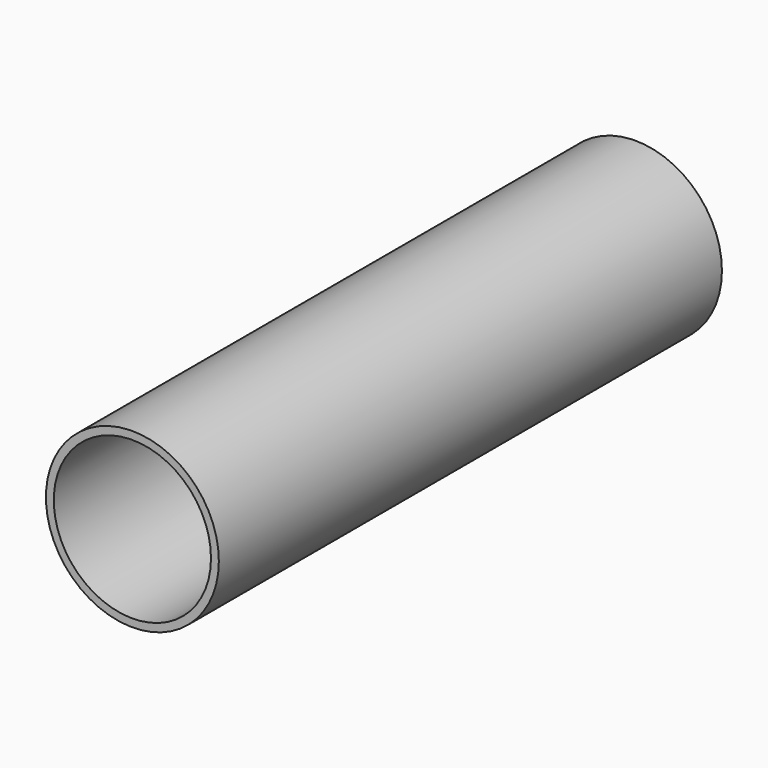
from build123d import *

# Parameters (mm, degrees)
F0_R     = 5.5
F0_R_2   = 5
F1_DEPTH = 20
F2_R     = 3.6
F3_DEPTH = 25


with BuildPart() as f1:
    # F0 (on Front) → F1 (new body, symmetric)
    with BuildSketch(Plane.XZ):
        Circle(F0_R)
        Circle(F0_R_2, mode=Mode.SUBTRACT)
    extrude(amount=F1_DEPTH, both=True)

    # F2 (on Right) → F3 (cut)
    with BuildSketch(Plane.YZ):
        Circle(F2_R)
    extrude(amount=-F3_DEPTH, mode=Mode.SUBTRACT)


solid = f1.part
